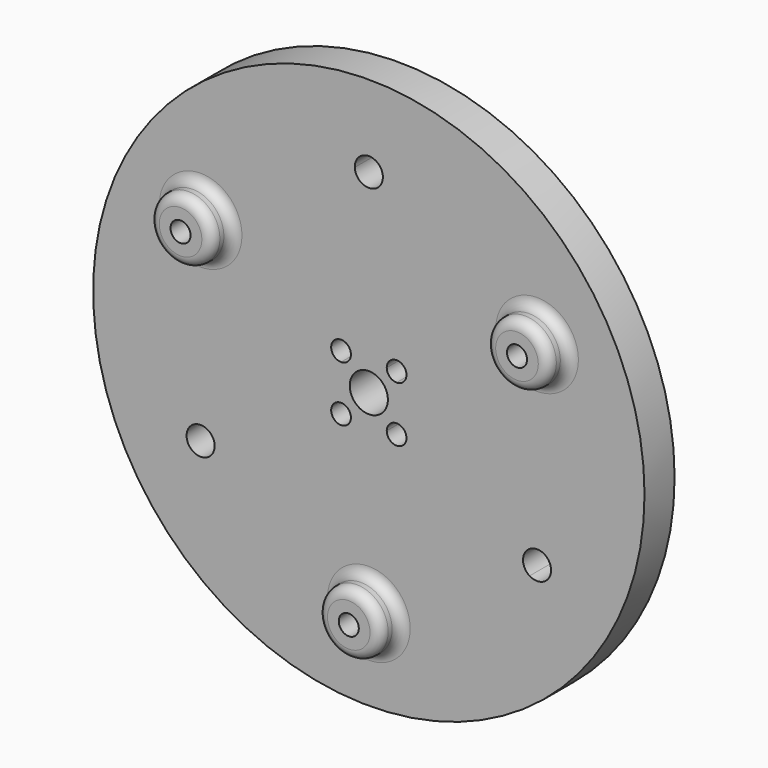
from build123d import *

# Parameters (mm, degrees)
F0_R     = 69.85
F0_R_2   = 4.826
F1_DEPTH = 9.525
F2_R     = 5.5
F3_DEPTH = 2.54
F4_R     = 7.9375
F4_R_2   = 2.54
F5_DEPTH = 6.35
F6_R     = 2.54


with BuildPart() as f1:
    # F0 (on Front) → F1 (new body)
    with BuildSketch(Plane.XZ):
        Circle(F0_R)
        with BuildLine():
            ThreePointArc((43.8320856521, 22.3745038747), (47.8484935573, 11.5061644586), (49.2125, 0))
            ThreePointArc((49.2125, 0), (47.9647705666, -11.0114004897), (44.2848519129, -21.4644368039))
            ThreePointArc((44.2848519129, -21.4644368039), (45.6662348855, -22.7728999037), (46.1752751837, -24.60625))
            ThreePointArc((46.1752751837, -24.60625), (44.3413446416, -27.7174576083), (40.7311735065, -27.6195883574))
            ThreePointArc((40.7311735065, -27.6195883574), (24.1647916276, -42.8711208373), (2.5391540735, -49.1469516129))
            ThreePointArc((2.5391540735, -49.1469516129), (2.5397885096, -49.1797230773), (2.54, -49.2125))
            ThreePointArc((2.54, -49.2125), (-0.0327769227, -51.7522885096), (-2.5391540735, -49.1469516129))
            ThreePointArc((-2.5391540735, -49.1469516129), (-24.1647916276, -42.8711208373), (-40.7311735065, -27.6195883574))
            ThreePointArc((-40.7311735065, -27.6195883574), (-45.6988615196, -26.38425), (-44.2848519129, -21.4644368039))
            ThreePointArc((-44.2848519129, -21.4644368039), (-49.2098755476, 0.508236992), (-43.8320856521, 22.3745038747))
            ThreePointArc((-43.8320856521, 22.3745038747), (-44.8189797094, 25.87625), (-41.2929315786, 26.7724477382))
            ThreePointArc((-41.2929315786, 26.7724477382), (-25.04508392, 42.3628838453), (-3.5536784064, 49.0840251613))
            ThreePointArc((-3.5536784064, 49.0840251613), (-0.0642479065, 52.7679195542), (3.556, 49.2125))
            ThreePointArc((3.556, 49.2125), (3.5554195542, 49.1482520935), (3.5536784064, 49.0840251613))
            ThreePointArc((3.5536784064, 49.0840251613), (25.04508392, 42.3628838453), (41.2929315786, 26.7724477382))
            ThreePointArc((41.2929315786, 26.7724477382), (43.8607837908, 26.8221598309), (45.1592751837, 24.60625))
            ThreePointArc((45.1592751837, 24.60625), (44.8024080919, 23.3079700975), (43.8320856521, 22.3745038747))
        make_face(mode=Mode.SUBTRACT)
        with BuildLine():
            ThreePointArc((44.2848519129, -21.4644368039), (47.9647705666, -11.0114004897), (49.2125, 0))
            ThreePointArc((49.2125, 0), (47.8484935573, 11.5061644586), (43.8320856521, 22.3745038747))
            ThreePointArc((43.8320856521, 22.3745038747), (40.4195706581, 23.33625), (41.2929315786, 26.7724477382))
            ThreePointArc((41.2929315786, 26.7724477382), (25.04508392, 42.3628838453), (3.5536784064, 49.0840251613))
            ThreePointArc((3.5536784064, 49.0840251613), (0, 45.6565), (-3.5536784064, 49.0840251613))
            ThreePointArc((-3.5536784064, 49.0840251613), (-25.04508392, 42.3628838453), (-41.2929315786, 26.7724477382))
            ThreePointArc((-41.2929315786, 26.7724477382), (-40.4033653529, 25.8477586071), (-40.0792751837, 24.60625))
            ThreePointArc((-40.0792751837, 24.60625), (-41.3209952813, 22.4231170918), (-43.8320856521, 22.3745038747))
            ThreePointArc((-43.8320856521, 22.3745038747), (-49.2098755476, 0.508236992), (-44.2848519129, -21.4644368039))
            ThreePointArc((-44.2848519129, -21.4644368039), (-40.7859250874, -21.5592902982), (-39.0632751837, -24.60625))
            ThreePointArc((-39.0632751837, -24.60625), (-39.5080675754, -26.3283194579), (-40.7311735065, -27.6195883574))
            ThreePointArc((-40.7311735065, -27.6195883574), (-24.1647916276, -42.8711208373), (-2.5391540735, -49.1469516129))
            ThreePointArc((-2.5391540735, -49.1469516129), (0, -46.6725), (2.5391540735, -49.1469516129))
            ThreePointArc((2.5391540735, -49.1469516129), (24.1647916276, -42.8711208373), (40.7311735065, -27.6195883574))
            ThreePointArc((40.7311735065, -27.6195883574), (39.5396888479, -22.82825), (44.2848519129, -21.4644368039))
        make_face()
        with BuildLine():
            ThreePointArc((-7.0358, 4.5358), (-8.803566953, 8.803566953), (-4.5358, 7.0358))
            Line((-4.5358, 7.0358), (4.5358, 7.0358))
            ThreePointArc((4.5358, 7.0358), (7.0358, 9.5358), (9.5358, 7.0358))
            ThreePointArc((9.5358, 7.0358), (8.803566953, 5.268033047), (7.0358, 4.5358))
            Line((7.0358, 4.5358), (7.0358, -4.5358))
            ThreePointArc((7.0358, -4.5358), (8.803566953, -5.268033047), (9.5358, -7.0358))
            ThreePointArc((9.5358, -7.0358), (7.0358, -9.5358), (4.5358, -7.0358))
            Line((4.5358, -7.0358), (-4.5358, -7.0358))
            ThreePointArc((-4.5358, -7.0358), (-8.803566953, -8.803566953), (-7.0358, -4.5358))
            Line((-7.0358, -4.5358), (-7.0358, 4.5358))
        make_face(mode=Mode.SUBTRACT)
        with BuildLine():
            Line((4.5358, 7.0358), (-4.5358, 7.0358))
            ThreePointArc((-4.5358, 7.0358), (-5.268033047, 5.268033047), (-7.0358, 4.5358))
            Line((-7.0358, 4.5358), (-7.0358, -4.5358))
            ThreePointArc((-7.0358, -4.5358), (-5.268033047, -5.268033047), (-4.5358, -7.0358))
            Line((-4.5358, -7.0358), (4.5358, -7.0358))
            ThreePointArc((4.5358, -7.0358), (5.268033047, -5.268033047), (7.0358, -4.5358))
            Line((7.0358, -4.5358), (7.0358, 4.5358))
            ThreePointArc((7.0358, 4.5358), (5.268033047, 5.268033047), (4.5358, 7.0358))
        make_face()
        Circle(F0_R_2, mode=Mode.SUBTRACT)
    extrude(amount=F1_DEPTH)

    # F2 (on face) → F3 (cut)
    with BuildSketch(Plane(origin=(0, 0, 0), x_dir=(-1, 0, 0), z_dir=(0, 1, 0))):
        with Locations((-42.6192751837, 24.60625)):
            Circle(F2_R)
        with Locations((42.6192751837, 24.60625)):
            Circle(F2_R)
        with Locations((0, -49.2125)):
            Circle(F2_R)
    extrude(amount=-F3_DEPTH, mode=Mode.SUBTRACT)

    # F4 (on face) → F5 (join)
    with BuildSketch(Plane.XZ.offset(9.525)):
        with Locations((-42.6192751837, 24.60625)):
            Circle(F4_R)
        with Locations((-42.6192751837, 24.60625)):
            Circle(F4_R_2, mode=Mode.SUBTRACT)
        with Locations((42.6192751837, 24.60625)):
            Circle(F4_R)
        with Locations((42.6192751837, 24.60625)):
            Circle(F4_R_2, mode=Mode.SUBTRACT)
        with Locations((0, -49.2125)):
            Circle(F4_R)
        with Locations((0, -49.2125)):
            Circle(F4_R_2, mode=Mode.SUBTRACT)
    extrude(amount=F5_DEPTH)

    # F6
    f6_edges = [f1.edges().sort_by_distance(p)[0] for p in [
        (-50.556775, -15.875, 24.60625),
        (-7.9375, -15.875, -49.2125),
        (34.681775, -15.875, 24.60625),
        (-50.556775, -9.525, 24.60625),
        (-7.9375, -9.525, -49.2125),
        (34.681775, -9.525, 24.60625),
    ]]
    fillet(f6_edges, radius=F6_R)


solid = f1.part
